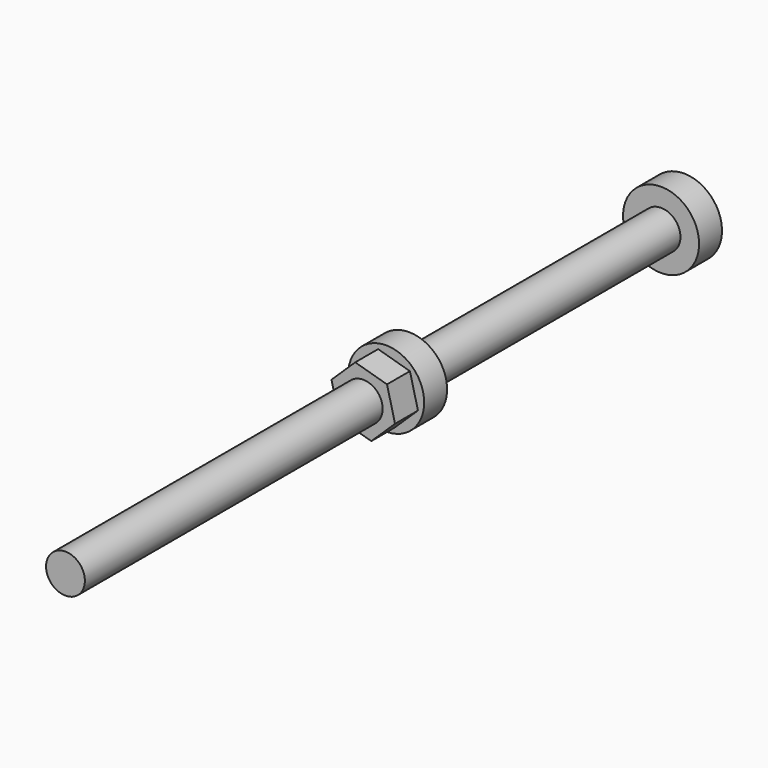
from build123d import *

# Parameters (mm, degrees)
F0_R     = 2.15265
F1_DEPTH = 44.45
F2_R     = 4.2164
F3_DEPTH = 3.175
F4_R     = 2.15265
F5_DEPTH = 3.175
F6_R     = 2.15265
F7_DEPTH = 38.1
F8_R     = 4.2164
F9_DEPTH = 3.175


with BuildPart() as f1:
    # F0 (on Front) → F1 (new body)
    with BuildSketch(Plane.XZ):
        Circle(F0_R)
    extrude(amount=F1_DEPTH)

    # F2 (on face) → F3 (join)
    with BuildSketch(Plane(origin=(0, 0, 0), x_dir=(-1, 0, 0), z_dir=(0, 1, 0))):
        Circle(F2_R)
    extrude(amount=F3_DEPTH)


with BuildPart() as f5:
    # F4 (on Front) → F5 (new body)
    with BuildSketch(Plane.XZ):
        Polygon((0.892242, -3.555944), (3.525659, -1.005268), (2.633417, 2.550676), (-0.892242, 3.555944), (-3.525659, 1.005268), (-2.633417, -2.550676), align=None)
        Circle(F4_R, mode=Mode.SUBTRACT)
    extrude(amount=F5_DEPTH)


with BuildPart() as f7:
    # F6 (on Front) → F7 (new body)
    with BuildSketch(Plane.XZ):
        Circle(F6_R)
    extrude(amount=-F7_DEPTH)

    # F8 (on face) → F9 (join)
    with BuildSketch(Plane(origin=(0, 38.1, 0), x_dir=(-1, 0, 0), z_dir=(0, 1, 0))):
        Circle(F8_R)
    extrude(amount=F9_DEPTH)


solid = Compound([f1.part, f5.part, f7.part])
